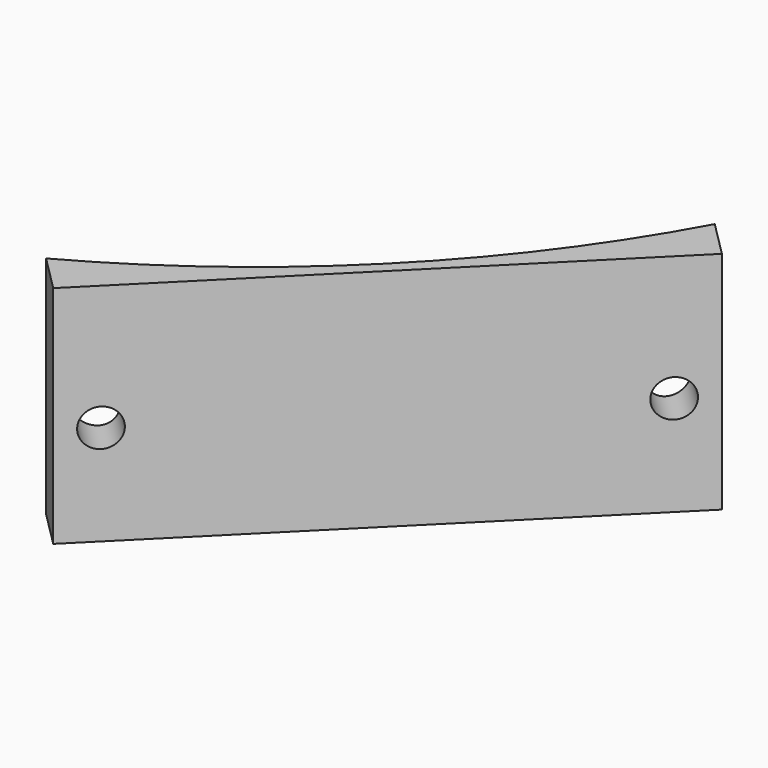
from build123d import *

# Parameters (mm, degrees)
CYLINDER1726_R              = 1.5
CYLINDER1726_DEPTH          = 50
COMPOUND868_PLACEMENT_ANGLE = 225
CYLINDER1725_R              = 1.5
CYLINDER1725_DEPTH          = 50
COMPOUND869_PLACEMENT_ANGLE = 225
CYLINDER1724_R              = 74
CYLINDER1724_DEPTH          = 40
BOX685_W                    = 42
BOX685_H                    = 8
BOX685_DEPTH                = 18
COMPOUND862_PLACEMENT_ANGLE = 225


with BuildPart() as compound868:
    # Cylinder1726 → Cylinder1726 (new body)
    with BuildSketch(Plane(origin=(18, 100, 72), x_dir=(1, 0, 0), z_dir=(0, -1, 0))):
        Circle(CYLINDER1726_R)
    extrude(amount=CYLINDER1726_DEPTH)


with BuildPart() as compound868_1:
    # Compound868 placement: moved
    add(compound868.part.rotate(Axis((0, 0, 0), (0, 0, 1)), COMPOUND868_PLACEMENT_ANGLE))


with BuildPart() as compound867:
    # Cylinder1725 → Cylinder1725 (new body)
    with BuildSketch(Plane(origin=(-18, 100, 72), x_dir=(1, 0, 0), z_dir=(0, -1, 0))):
        Circle(CYLINDER1725_R)
    extrude(amount=CYLINDER1725_DEPTH)


with BuildPart() as compound867_1:
    # Compound869 placement: moved
    add(compound867.part.rotate(Axis((0, 0, 0), (0, 0, 1)), COMPOUND869_PLACEMENT_ANGLE))

    # Compound867: union Compound868
    add(compound868_1.part)


with BuildPart() as compound867_2:
    # Compound867 placement: moved
    add(compound867_1.part.moved(Location((0, 0, 1))))


with BuildPart() as obj1:
    # Cylinder1724 → Cylinder1724 (new body)
    with BuildSketch(Plane.XY.offset(44)):
        Circle(CYLINDER1724_R)
    extrude(amount=CYLINDER1724_DEPTH)


with BuildPart() as cut499:
    # Box685 → Box685 (new body)
    with BuildSketch(Plane(origin=(-21, -23, 22), x_dir=(1, 0, 0), z_dir=(0, 0, 1))):
        with Locations((21, 4)):
            Rectangle(BOX685_W, BOX685_H)
    extrude(amount=BOX685_DEPTH)


with BuildPart() as cut499_1:
    # Compound862 placement: moved
    add(cut499.part.moved(Location((63.64, -63.64, 43))).rotate(Axis((63.64, -63.64, 43), (0, 0, 1)), COMPOUND862_PLACEMENT_ANGLE))

    # Cut498: cut obj1
    add(obj1.part, mode=Mode.SUBTRACT)

    # Cut499: cut Compound867
    add(compound867_2.part, mode=Mode.SUBTRACT)


solid = cut499_1.part
